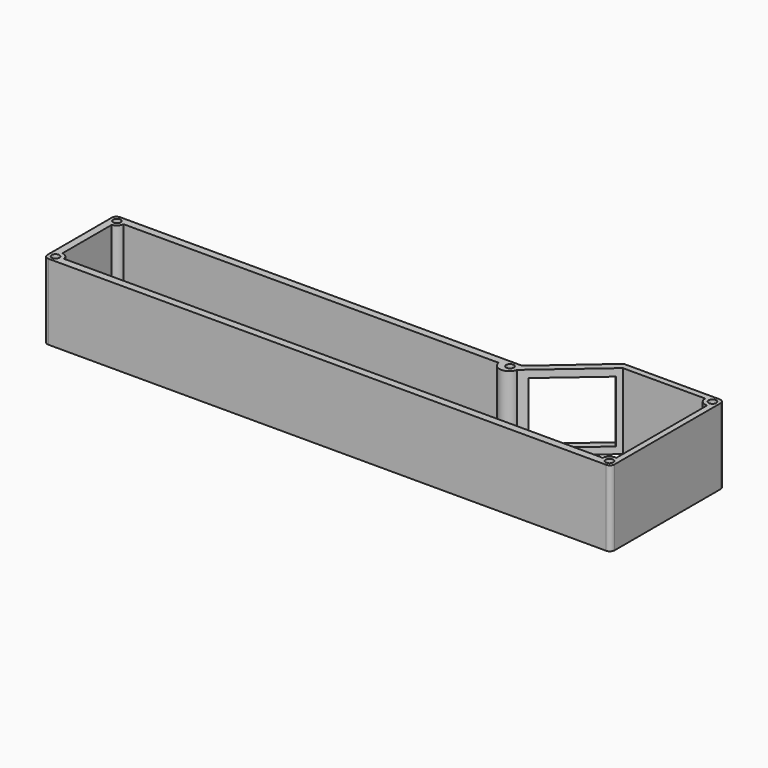
from build123d import *

# Parameters (mm, degrees)
F0_R     = 4
F1_DEPTH = 80
F2_W     = 72
F2_H     = 65
F3_DEPTH = 7.5581648407


with BuildPart() as f1:
    # F0 (on Top) → F1 (new body)
    with BuildSketch(Plane.XY):
        with BuildLine():
            Line((312.9912793082, 75.9082514048), (213.5049590409, 75.9082514048))
            ThreePointArc((213.5049590409, 75.9082514048), (211.7529694182, 75.5912560345), (210.2231288352, 74.6804643496))
            Line((210.2231288352, 74.6804643496), (149.8273279867, 22.1360384599))
            ThreePointArc((149.8273279867, 22.1360384599), (148.2974874037, 21.225246775), (146.545497781, 20.9082514048))
            Line((146.545497781, 20.9082514048), (-276.5839193761, 20.9082514048))
            ThreePointArc((-276.5839193761, 20.9082514048), (-280.1194532821, 19.4437853107), (-281.5839193761, 15.9082514048))
            Line((-281.5839193761, 15.9082514048), (-281.5839193761, -69.0917485952))
            ThreePointArc((-281.5839193761, -69.0917485952), (-280.1194532821, -72.6272825012), (-276.5839193761, -74.0917485952))
            Line((-276.5839193761, -74.0917485952), (312.9912793082, -74.0917485952))
            ThreePointArc((312.9912793082, -74.0917485952), (316.5268132142, -72.6272825012), (317.9912793082, -69.0917485952))
            Line((317.9912793082, -69.0917485952), (317.9912793082, 70.9082514048))
            ThreePointArc((317.9912793082, 70.9082514048), (316.5268132142, 74.4437853107), (312.9912793082, 75.9082514048))
        make_face()
        with Locations((-274.5839193761, -67.0917485952)):
            Circle(F0_R, mode=Mode.SUBTRACT)
        with Locations((310.9912793082, -67.0917485952)):
            Circle(F0_R, mode=Mode.SUBTRACT)
        with Locations((-274.5839193761, 13.9082514048)):
            Circle(F0_R, mode=Mode.SUBTRACT)
        with BuildLine():
            Line((-273.5839193761, -59.0917485952), (-273.5839193761, 5.9082514048))
            ThreePointArc((-273.5839193761, 5.9082514048), (-268.8711623353, 8.1954943639), (-266.5839193761, 12.9082514048))
            Line((-266.5839193761, 12.9082514048), (-112.4131828547, 12.9082514048))
            Line((-112.4131828547, 12.9082514048), (129.7935396433, 12.9082514048))
            ThreePointArc((129.7935396433, 12.9082514048), (139.4221907616, 4.3077632055), (149.5066444733, 12.3689735962))
            Line((149.5066444733, 12.3689735962), (215.8209085464, 69.4959036966))
            Line((215.8209085464, 69.4959036966), (221.9247751874, 69.4959036966))
            Line((221.9247751874, 69.4959036966), (302.9912793082, 69.4959036966))
            ThreePointArc((302.9912793082, 69.4959036966), (305.379178673, 63.1399404445), (311.7916584015, 60.9082514048))
            Line((311.7916584015, 60.9082514048), (311.7916584015, -59.0917485952))
            ThreePointArc((311.7916584015, -59.0917485952), (305.9541464058, -60.7847511051), (302.9912793082, -66.0917485952))
            Line((302.9912793082, -66.0917485952), (-266.5839193761, -66.0917485952))
            ThreePointArc((-266.5839193761, -66.0917485952), (-268.8711623353, -61.3789915544), (-273.5839193761, -59.0917485952))
        make_face(mode=Mode.SUBTRACT)
        with Locations((140.9914862647, 13.9082514048)):
            Circle(F0_R, mode=Mode.SUBTRACT)
        with Locations((310.9912793082, 68.9082514048)):
            Circle(F0_R, mode=Mode.SUBTRACT)
    extrude(amount=F1_DEPTH)

    # F2 (on face) → F3 (cut, through all)
    with BuildSketch(Plane(origin=(53.5865112104, -61.5935982634, 0), x_dir=(-0.754442589, -0.6563660411, 0), z_dir=(-0.6563660411, 0.754442589, 0))):
        with Locations((-166.607229352, 39.6668340825)):
            Rectangle(F2_W, F2_H)
    extrude(amount=-F3_DEPTH, mode=Mode.SUBTRACT)


solid = f1.part
